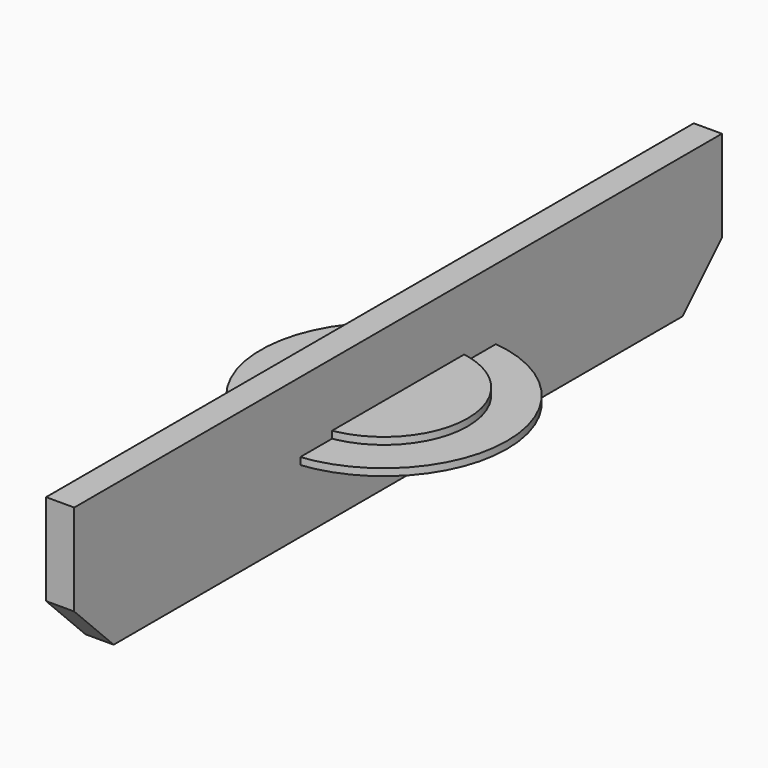
from build123d import *

# Parameters (mm, degrees)
F0_R     = 11.9
F1_DEPTH = 1
F2_R     = 17.5
F3_DEPTH = 1
F4_W     = 115
F4_H     = 20
F5_DEPTH = 2
F6_SIZE  = 7
F8_DEPTH = 2


with BuildPart() as f1:
    # F0 (on Top) → F1 (new body)
    with BuildSketch(Plane.XY):
        Circle(F0_R)
    extrude(amount=F1_DEPTH)

    # F2 (on face) → F3 (join)
    with BuildSketch(Plane(origin=(0, 0, 0), x_dir=(1, 0, 0), z_dir=(0, 0, -1))):
        Circle(F2_R)
    extrude(amount=F3_DEPTH)


with BuildPart() as f5:
    # F4 (on Right) → F5 (new body)
    with BuildSketch(Plane.YZ):
        Rectangle(F4_W, F4_H)
    extrude(amount=F5_DEPTH)

    # F6
    f6_edges = [f5.edges().sort_by_distance(p)[0] for p in [
        (1, -57.5, -10),
        (1, 57.5, -10),
    ]]
    chamfer(f6_edges, length=F6_SIZE)

    # F7 (on face) → F8 (join)
    with BuildSketch(Plane(origin=(0, 0, 0), x_dir=(0, -1, 0), z_dir=(-1, 0, 0))):
        Polygon((57.5, 10), (-57.5, 10), (-57.5, -3), (-50.5, -10), (50.5, -10), (57.5, -3), align=None)
        Polygon((-56.5, -2.585786), (-56.5, 9), (56.5, 9), (56.5, -2.585786), (50.085786, -9), (-50.085786, -9), align=None, mode=Mode.SUBTRACT)
    extrude(amount=F8_DEPTH)


solid = Compound([f1.part, f5.part])
